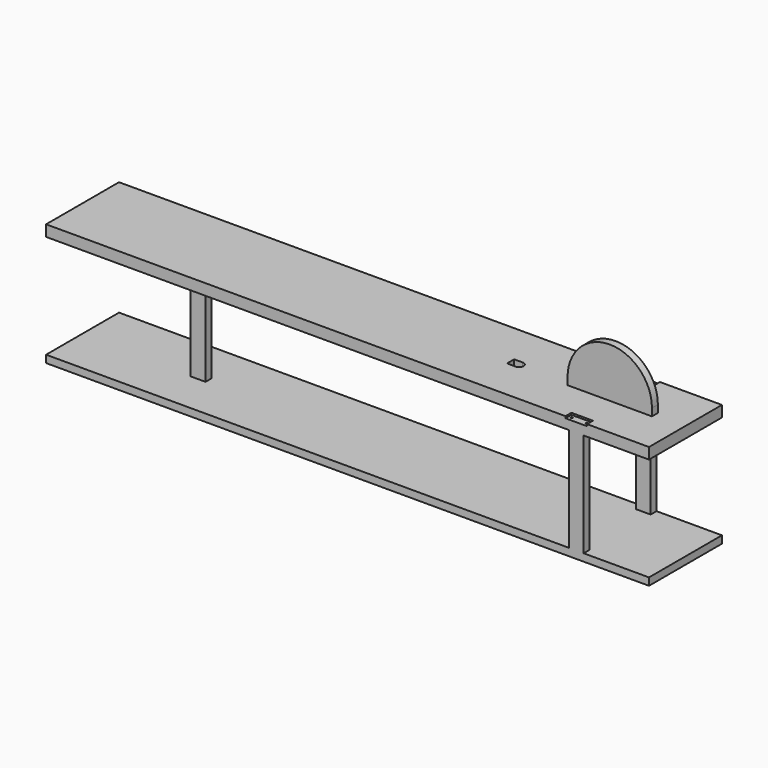
from build123d import *

# Parameters (mm, degrees)
F1_DEPTH      = 30
F3_DEPTH      = 10
F3_DEPTH_BACK = 10
F5_DEPTH      = 30.001
F6_R          = 2.5
F7_DEPTH      = 5
F8_DEPTH      = 10
F10_R         = 2.5
F11_DEPTH     = 16
F12_W         = 40
F12_H         = 10
F13_DEPTH     = 300
F16_DEPTH     = 20


with BuildPart() as f1:
    # F0 (on Top) → F1 (new body)
    with BuildSketch(Plane.XY):
        Polygon((0, -123.1), (0, 0), (0, 123.1), (-1628.22, 123.1), (-1628.22, -123.1), align=None)
    extrude(amount=-F1_DEPTH)

    # F2 (on Front) → F3 (join, two sides)
    with BuildSketch(Plane.XZ) as f3_sk:
        with BuildLine():
            Line((-196.45, 0), (-82.53, 0))
            Line((-82.53, 0), (-82.53, 20))
            ThreePointArc((-82.53, 20), (-196.45, 133.92), (-310.37, 20))
            Line((-310.37, 20), (-310.37, 0))
            Line((-310.37, 0), (-196.45, 0))
        make_face()
    extrude(amount=F3_DEPTH)
    extrude(f3_sk.sketch, amount=-F3_DEPTH_BACK)

    # F4 (on Top) → F5 (cut, through all)
    with BuildSketch(Plane.XY):
        with BuildLine():
            Line((-449.25, 12), (-460.75, 12))
            Line((-460.75, 12), (-472.25, 12))
            Line((-472.25, 12), (-472.25, -12))
            Line((-472.25, -12), (-449.25, -12))
            ThreePointArc((-449.25, -12), (-437.25, 0), (-449.25, 12))
        make_face()
    extrude(amount=-F5_DEPTH, mode=Mode.SUBTRACT)

    # F6 (on Top) → F7 (cut)
    with BuildSketch(Plane.XY):
        Polygon((-167.325, 123.1), (-196.45, 123.1), (-225.575, 123.1), (-225.575, 103.1), (-167.325, 103.1), align=None)
        with Locations((-217.075, 113.1)):
            Circle(F6_R, mode=Mode.SUBTRACT)
        with Locations((-175.825, 113.1)):
            Circle(F6_R, mode=Mode.SUBTRACT)
        Polygon((-167.325, -123.1), (-167.325, -103.1), (-225.575, -103.1), (-225.575, -123.1), (-196.45, -123.1), align=None)
        with Locations((-217.075, -113.1)):
            Circle(F6_R, mode=Mode.SUBTRACT)
        with Locations((-175.825, -113.1)):
            Circle(F6_R, mode=Mode.SUBTRACT)
    extrude(amount=-F7_DEPTH, mode=Mode.SUBTRACT)

    # F8 (cut): faces of the model
    f8_faces = [f1.faces().sort_by_distance(p)[0] for p in [
        (-175.825, 113.1, 0),
        (-217.075, 113.1, 0),
        (-175.825, -113.1, 0),
        (-217.075, -113.1, 0),
    ]]
    extrude(f8_faces, amount=-F8_DEPTH, mode=Mode.SUBTRACT)

    # F10 (on offset) → F11 (cut)
    with BuildSketch(Plane.XY.offset(-30)):
        with Locations((-502.25, -10)):
            Circle(F10_R)
        with Locations((-502.25, 10)):
            Circle(F10_R)
    extrude(amount=F11_DEPTH, mode=Mode.SUBTRACT)

    # F12 (on offset) → F13 (join)
    with BuildSketch(Plane.XY.offset(-30)):
        Polygon((-216.45, -123.1), (-196.45, -123.1), (-176.45, -123.1), (-176.45, -103.1), (-216.45, -103.1), align=None)
        Polygon((-216.45, 103.1), (-176.45, 103.1), (-176.45, 123.1), (-196.45, 123.1), (-216.45, 123.1), align=None)
        with Locations((-1308.21, 5)):
            Rectangle(F12_W, F12_H)
        with Locations((-1308.21, -5)):
            Rectangle(F12_W, F12_H)
    extrude(amount=-F13_DEPTH)

    # F15 (on offset) → F16 (join)
    with BuildSketch(Plane(origin=(0, 0, -330), x_dir=(1, 0, 0), z_dir=(0, 0, -1))):
        Polygon((0, -123.1), (0, 0), (0, 123.1), (-1628.22, 123.1), (-1628.22, -123.1), align=None)
    extrude(amount=-F16_DEPTH)


solid = f1.part
